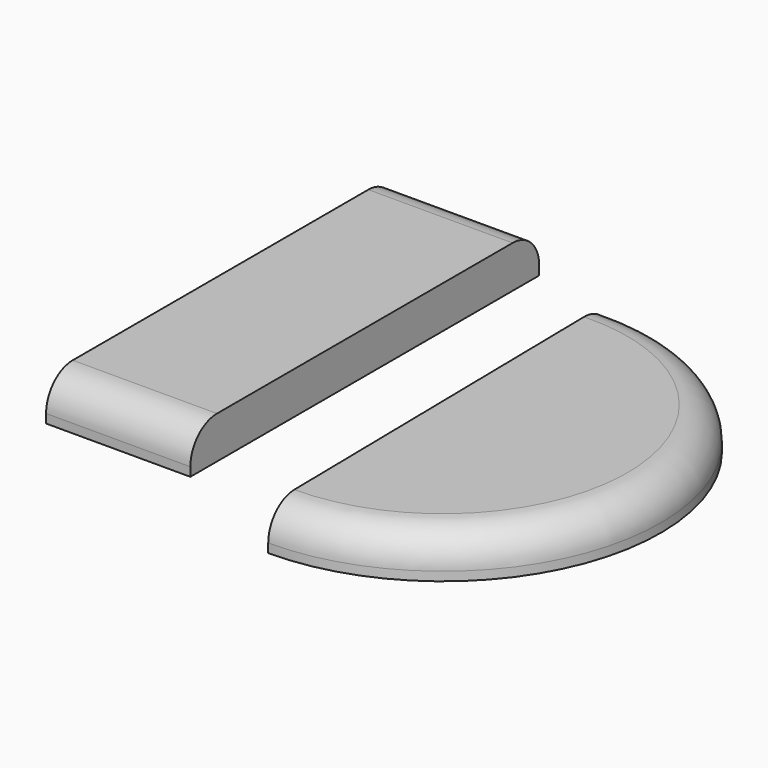
from build123d import *

# Parameters (mm, degrees)
F1_DEPTH = 19
F2_W     = 65
F2_H     = 196.4674
F3_DEPTH = 19
F4_R     = 15
F4_2_R   = 15


with BuildPart() as f1:
    # F0 (on Top) → F1 (new body)
    with BuildSketch(Plane.XY):
        with BuildLine():
            ThreePointArc((0, -98.246098), (98.2337, 1.560734), (-3.121074, 98.19651))
            Line((-3.121074, 98.19651), (0, -98.246098))
        make_face()
    extrude(amount=F1_DEPTH)

    # F4#2
    f4_2_edges = [f1.edges().sort_by_distance(p)[0] for p in [
        (98.2337, 1.560734, 19),
    ]]
    fillet(f4_2_edges, radius=F4_2_R)


with BuildPart() as f3:
    # F2 (on Top) → F3 (new body)
    with BuildSketch(Plane.XY):
        with Locations((-90.196117, 28.250121)):
            Rectangle(F2_W, F2_H)
    extrude(amount=F3_DEPTH)

    # F4
    f4_edges = [f3.edges().sort_by_distance(p)[0] for p in [
        (-90.196117, 126.483821, 19),
        (-90.196117, -69.983579, 19),
    ]]
    fillet(f4_edges, radius=F4_R)


solid = Compound([f1.part, f3.part])
